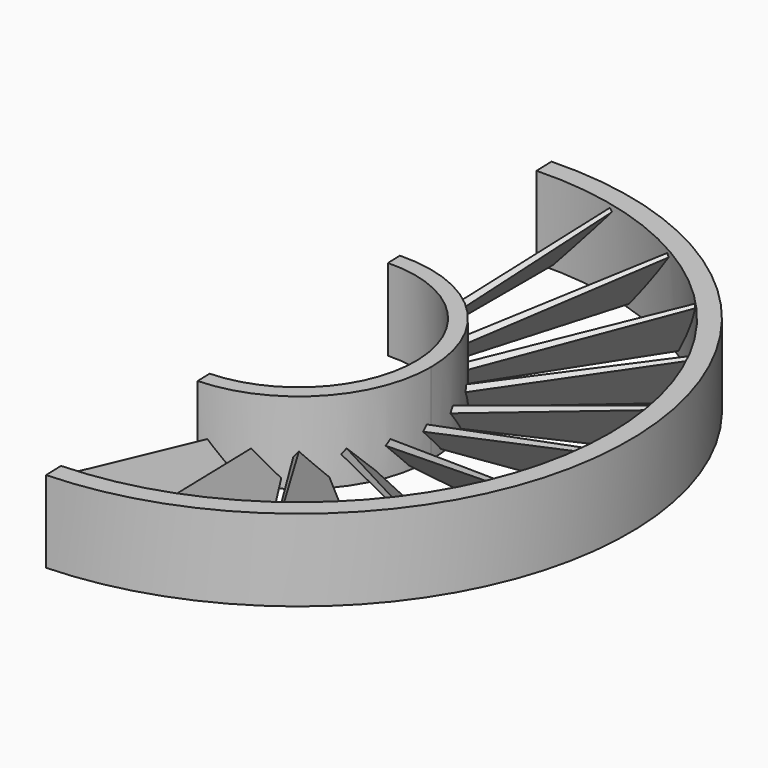
from build123d import *

# Parameters (mm, degrees)
BOX_W                     = 500
BOX_H                     = 500
BOX_DEPTH                 = 500
BOX_PLACEMENT_ANGLE       = 2
TUBE019_R                 = 85
TUBE019_R_2               = 80
TUBE019_DEPTH             = 21
TUBE012_R                 = 100
TUBE012_R_2               = 80
TUBE012_DEPTH             = 200
PAD030_DEPTH              = 100
PAD031_DEPTH              = 2
COMMON013_PLACEMENT_ANGLE = 45
ARRAY013_COUNT            = 22
ARRAY013_PLACEMENT_ANGLE  = 180
TUBE020_R                 = 34
TUBE020_R_2               = 30
TUBE020_DEPTH             = 21


with BuildPart() as cube:
    # Box → Box (new body)
    with BuildSketch(Plane.XY):
        with Locations((250, 250)):
            Rectangle(BOX_W, BOX_H)
    extrude(amount=BOX_DEPTH)


with BuildPart() as cube_1:
    # Box placement: moved
    add(cube.part.moved(Location((8.73, -250, 0))).rotate(Axis((8.73, -250, 0), (0, 0, 1)), BOX_PLACEMENT_ANGLE))


with BuildPart() as tube019:
    # Tube019 → Tube019 (new body)
    with BuildSketch(Plane.XY.offset(139.5)):
        Circle(TUBE019_R)
        Circle(TUBE019_R_2, mode=Mode.SUBTRACT)
    extrude(amount=TUBE019_DEPTH)


with BuildPart() as tube012:
    # Tube012 → Tube012 (new body)
    with BuildSketch(Plane.XY):
        Circle(TUBE012_R)
        Circle(TUBE012_R_2, mode=Mode.SUBTRACT)
    extrude(amount=TUBE012_DEPTH)


with BuildPart() as body031:
    # Sketch030 → Pad030 (new body)
    with BuildSketch(Plane.XZ):
        Polygon((0, 0), (0, 2), (26, 0.9), (26, 0), align=None)
    extrude(amount=PAD030_DEPTH)


with BuildPart() as body031_1:
    # Body031 placement: moved
    add(body031.part.moved(Location((-5, 0, 5))))


with BuildPart() as cut001:
    # Sketch031 → Pad031 (new body)
    with BuildSketch(Plane.XY):
        Polygon((0, 0), (0, -52), (25.94305, -47.924315), (8.5, 0), align=None)
    extrude(amount=PAD031_DEPTH)


with BuildPart() as cut001_1:
    # Body032 placement: moved
    add(cut001.part.moved(Location((-5, -33, 5))))

    # Common013: intersect Body031
    add(body031_1.part, mode=Mode.INTERSECT)


with BuildPart() as cut001_2:
    # Common013 placement: moved
    add(cut001_1.part.rotate(Axis((0, 0, 0), (0, 1, 0)), COMMON013_PLACEMENT_ANGLE))

    # Array013: Cut001 ×22 about axis
    array013_axis = Axis((0, 0, 0), (0, 0, 1))


with BuildPart() as cut001_3:
    add(cut001_2.part)
    for i in range(1, ARRAY013_COUNT):
        add(cut001_2.part.rotate(array013_axis, i * 360 / ARRAY013_COUNT))


with BuildPart() as cut001_4:
    # Array013 placement: moved
    add(cut001_3.part.moved(Location((0, 0, 149))).rotate(Axis((0, 0, 149), (0, 1, 0)), ARRAY013_PLACEMENT_ANGLE))

    # Cut001: cut Tube012
    add(tube012.part, mode=Mode.SUBTRACT)


with BuildPart() as obj1:
    # Tube020 → Tube020 (new body)
    with BuildSketch(Plane.XY.offset(139.5)):
        Circle(TUBE020_R)
        Circle(TUBE020_R_2, mode=Mode.SUBTRACT)
    extrude(amount=TUBE020_DEPTH)

    # Fusion009: union Tube019, Cut001
    add(tube019.part)
    add(cut001_4.part)

    # Common015: intersect Cube
    add(cube_1.part, mode=Mode.INTERSECT)


solid = obj1.part
